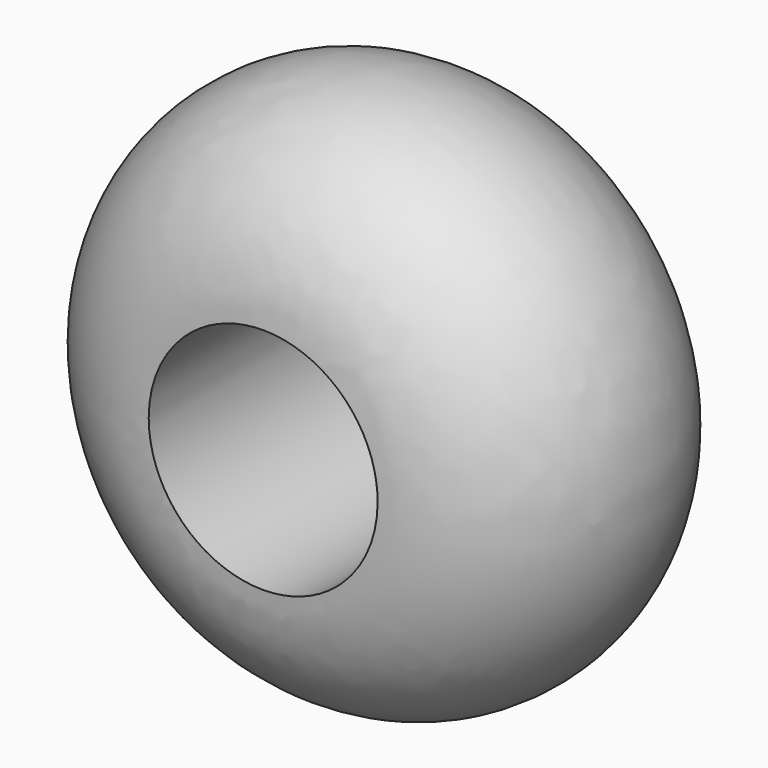
from build123d import *

# Parameters (mm, degrees)
F1_DEPTH = 152.4
F5_R     = 36.5151076764
F6_DEPTH = 76.2


with BuildPart() as f1:
    # F0 (on Top) → F1 (new body)
    with BuildSketch(Plane.XY):
        with BuildLine():
            add(Edge.make_bspline(
                [(-30.1583763212, 26.8533546478), (-35.5003351395, 29.3716106811), (-51.0884137789, 9.6325041789), (-25.2860844502, -4.9136502048), (-45.0252250448, -42.8862151644), (8.5882174045, 8.4418630123), (27.5078921363, -21.9533160161), (34.085605065, -14.777172224), (32.6714684541, 29.7125514383), (9.6282544541, 20.9931932278), (-10.5520933547, 73.391258381), (-25.584204402, 36.4452356852), (-18.7180254716, 37.9365806871), (-17.0410387376, -9.9149224662), (-24.4521007861, 24.1633558509), (-30.1583763212, 26.8533546478)],
                knots=[0, 0, 0, 0, 0.0718142004, 0.1538074866, 0.2258423664, 0.338821539, 0.4206418103, 0.457998906, 0.5591681116, 0.6268881468, 0.7276936964, 0.8033833284, 0.8374228011, 0.9232881367, 1, 1, 1, 1], degree=3))
        make_face()
    extrude(amount=F1_DEPTH)


with BuildPart() as f4:
    # F3 (on Top) → F4 (revolve)
    with BuildSketch(Plane.XY):
        with BuildLine():
            Line((-16.2531528622, -42.9988354445), (-16.2531528622, 29.0087852627))
            ThreePointArc((-16.2531528622, 29.0087852627), (-102.9879565253, -6.9950250909), (-16.2531528622, -42.9988354445))
        make_face()
    revolve(axis=Axis((-16.2531528622, -1.6458891332, 0), (0, -1, 0)))

    # F5 (on Front) → F6 (cut, symmetric)
    with BuildSketch(Plane.XZ):
        with Locations((-14.195789583, 0)):
            Circle(F5_R)
    extrude(amount=F6_DEPTH, both=True, mode=Mode.SUBTRACT)


solid = f4.part
